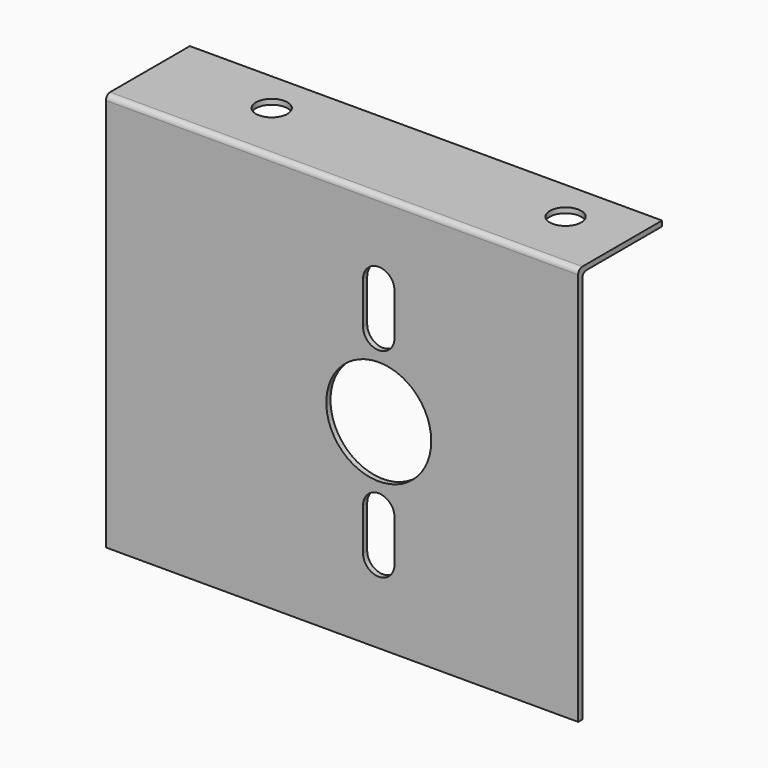
from build123d import *

# Parameters (mm, degrees)
F0_W     = 45
F0_H     = 38
F1_DEPTH = 0.5
F2_W     = 45
F2_H     = 10
F2_R     = 1.5
F3_DEPTH = 0.5
F4_R     = 0.5
F5_R     = 5
F6_DEPTH = 25


with BuildPart() as f1:
    # F0 (on Front) → F1 (new body)
    with BuildSketch(Plane.XZ):
        with Locations((9.434236, -1.718442)):
            Rectangle(F0_W, F0_H)
    extrude(amount=F1_DEPTH)

    # F2 (on face) → F3 (join)
    with BuildSketch(Plane.XY.offset(17.281558)):
        with Locations((9.434236, 4.5)):
            Rectangle(F2_W, F2_H)
        with Locations((-2.065764, 5.5)):
            Circle(F2_R, mode=Mode.SUBTRACT)
        with Locations((25.934236, 5.5)):
            Circle(F2_R, mode=Mode.SUBTRACT)
    extrude(amount=-F3_DEPTH)

    # F4
    f4_edges = [f1.edges().sort_by_distance(p)[0] for p in [
        (9.434236, -0.5, 17.281558),
        (9.434236, 0, 16.781558),
    ]]
    fillet(f4_edges, radius=F4_R)

    # F5 (on face) → F6 (cut)
    with BuildSketch(Plane.XZ.offset(0.5)):
        with Locations((12.934236, -1.718442)):
            Circle(F5_R)
        with BuildLine():
            Line((14.434236, 5.781558), (14.434236, 9.781558))
            ThreePointArc((14.434236, 9.781558), (12.934236, 11.281558), (11.434236, 9.781558))
            Line((11.434236, 9.781558), (11.434236, 5.781558))
            ThreePointArc((11.434236, 5.781558), (12.934236, 4.281558), (14.434236, 5.781558))
        make_face()
        with BuildLine():
            Line((14.434236, -13.218442), (14.434236, -9.218442))
            ThreePointArc((14.434236, -9.218442), (12.934236, -7.718442), (11.434236, -9.218442))
            Line((11.434236, -9.218442), (11.434236, -13.218442))
            ThreePointArc((11.434236, -13.218442), (12.934236, -14.718442), (14.434236, -13.218442))
        make_face()
    extrude(amount=-F6_DEPTH, mode=Mode.SUBTRACT)


solid = f1.part
